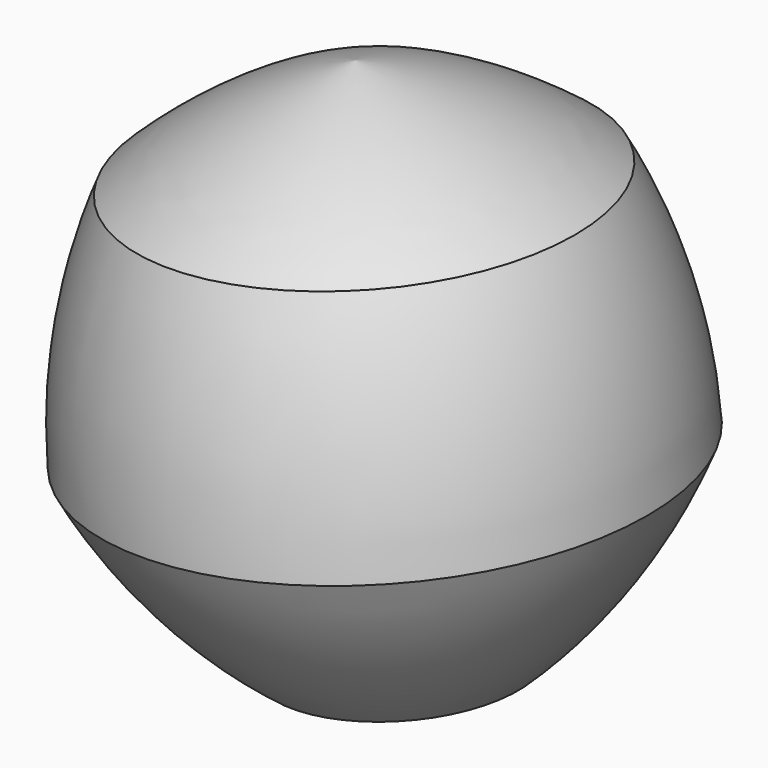
from build123d import *


with BuildPart() as f1:
    # F0 (on Front) → F1 (revolve)
    with BuildSketch(Plane.XZ):
        with BuildLine():
            ThreePointArc((-20.9590792415, 13.8174685486), (-23.6311332791, 3.1870563062), (-23.8707040827, -7.771417267))
            ThreePointArc((-23.8707040827, -7.771417267), (-17.2255115624, -16.4884668591), (-8.807201876, -23.5082673725))
            ThreePointArc((-8.807201876, -23.5082673725), (-3.3346920933, -23.935760112), (2.1512716971, -23.7478381761))
            Line((2.1512716971, -23.7478381761), (-2.2648402441, 25.0015187221))
            ThreePointArc((-2.2648402441, 25.0015187221), (-12.2420296493, 20.4626610688), (-20.9590792415, 13.8174685486))
        make_face()
    revolve(axis=Axis((-0.0567842735, 0, 0.626840273), (0.0902186865, 0, -0.9959219792)))


solid = f1.part
